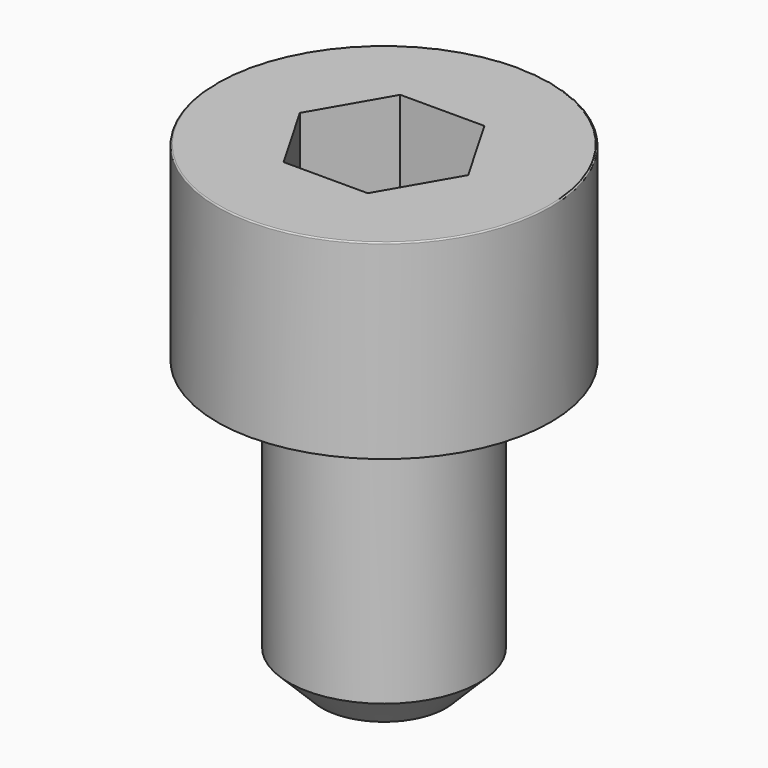
from build123d import *

# Parameters (mm, degrees)
POCKET_DEPTH = 3.06


with BuildPart() as part:
    # Sketch → Revolve (revolve)
    with BuildSketch(Plane.YZ):
        with BuildLine():
            Line((1.999, 0), (3.5, 0))
            Line((3.5, 0), (3.5, 3.97229))
            ThreePointArc((3.5, 3.97229), (3.491884, 3.991884), (3.47229, 4))
            Line((3.47229, 4), (0, 4))
            Line((0, -6), (0, 4))
            Line((1.3, -6), (0, -6))
            Line((2, -5.3), (1.3, -6))
            Line((2, -0.2), (2, -5.3))
            Line((1.999, 0), (2, -0.2))
        make_face()
    revolve(axis=Axis((0, 0, 0), (0, 0, 1)))

    # Sketch001 → Pocket (cut)
    with BuildSketch(Plane.XY.offset(4)):
        Polygon((1.766692, 0), (0.883346, 1.53), (-0.883346, 1.53), (-1.766692, 0), (-0.883346, -1.53), (0.883346, -1.53), align=None)
    extrude(amount=-POCKET_DEPTH, mode=Mode.SUBTRACT)


solid = part.part
